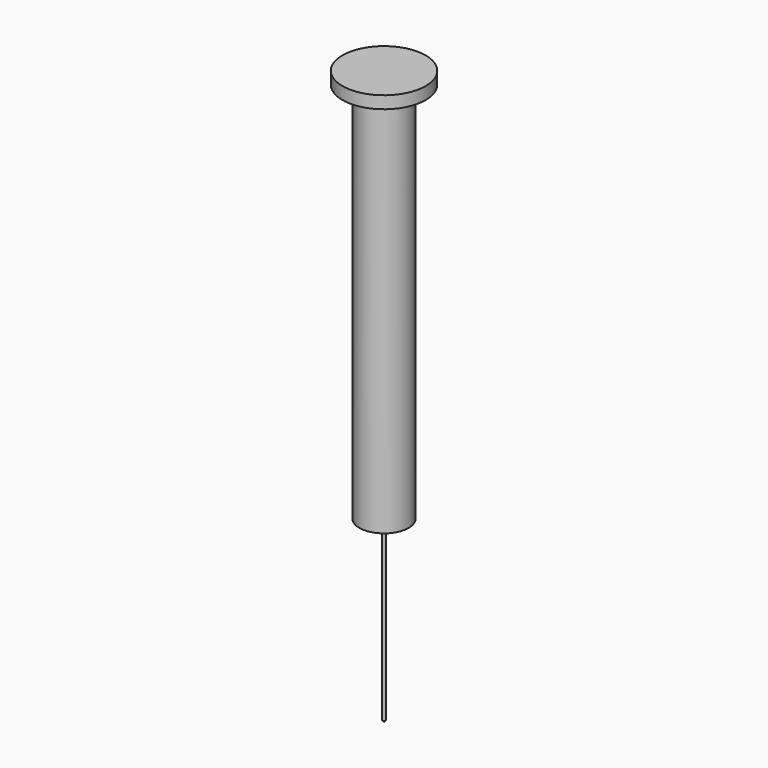
from build123d import *

# Parameters (mm, degrees)
F0_R     = 6.75
F1_DEPTH = 2
F2_R     = 4
F3_DEPTH = 62
F4_R     = 0.25
F5_DEPTH = 29
F6_SIZE  = 0.25


with BuildPart() as f1:
    # F0 (on Top) → F1 (new body)
    with BuildSketch(Plane.XY):
        Circle(F0_R)
    extrude(amount=F1_DEPTH)

    # F2 (on face) → F3 (join)
    with BuildSketch(Plane(origin=(0, 0, 0), x_dir=(1, 0, 0), z_dir=(0, 0, -1))):
        Circle(F2_R)
    extrude(amount=F3_DEPTH)

    # F4 (on face) → F5 (join)
    with BuildSketch(Plane(origin=(0, 0, -62), x_dir=(1, 0, 0), z_dir=(0, 0, -1))):
        Circle(F4_R)
    extrude(amount=F5_DEPTH)

    # F6
    f6_edges = [f1.edges().sort_by_distance(p)[0] for p in [
        (-0.25, 0, -91),
    ]]
    chamfer(f6_edges, length=F6_SIZE)


solid = f1.part
